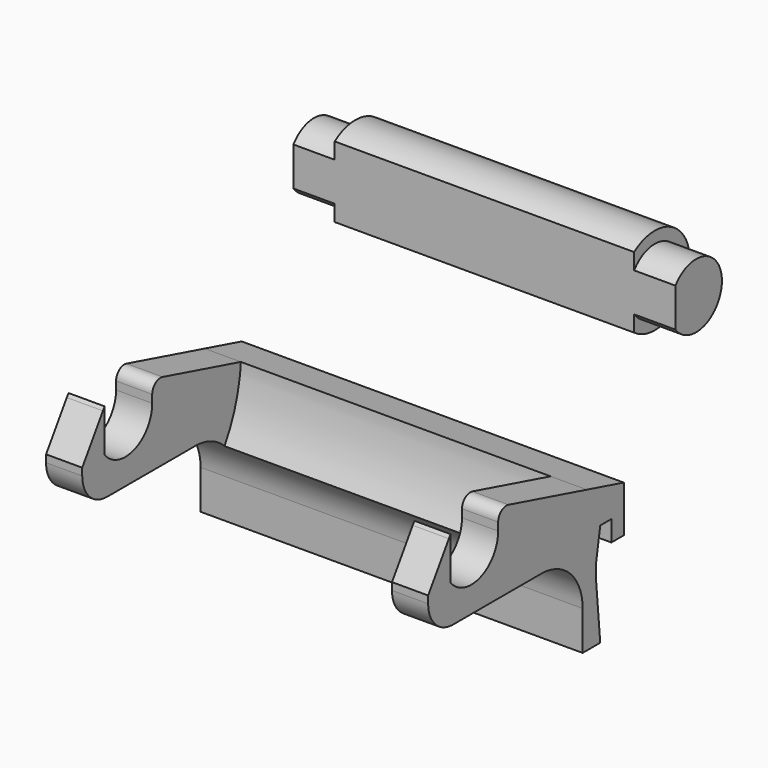
from build123d import *

# Parameters (mm, degrees)
F1_DEPTH      = 37
F1_DEPTH_BACK = 37
F2_DEPTH      = 30
F2_DEPTH_BACK = 30
F3_R          = 8.5
F4_DEPTH      = 37
F4_DEPTH_BACK = 37
F6_DEPTH      = 74.001
F8_DEPTH      = 8
F10_DEPTH     = 8


with BuildPart() as f1:
    # F0 (on Right) → F1 (new body, two sides)
    with BuildSketch(Plane.YZ) as f1_sk:
        with BuildLine():
            ThreePointArc((-78.4882180956, -7.1124182744), (-74.6718335634, -7.8693014244), (-71.4331604605, -10.0253764539))
            ThreePointArc((-71.4331604605, -10.0253764539), (-69.0747981117, -5.0434256298), (-67.7380949338, 0.3039972631))
            Line((-67.7380949338, 0.3039972631), (-67.8932940144, 0.3039972631))
            Line((-67.8932940144, 0.3039972631), (-88.9387147452, 0.3039972631))
            Line((-88.9387147452, 0.3039972631), (-90.38160708, 0.3039972631))
            ThreePointArc((-90.38160708, 0.3039972631), (-95.393650332, -2.112262057), (-100.4387147452, 0.2342697942))
            ThreePointArc((-100.4387147452, 0.2342697942), (-100.4673894342, 0.2690345458), (-100.4958224104, 0.3039972631))
            Line((-100.4958224104, 0.3039972631), (-105.886151975, 0.3039972631))
            Line((-105.886151975, 0.3039972631), (-105.886151975, -1.1124182744))
            ThreePointArc((-105.886151975, -1.1124182744), (-104.1287926621, -5.3550589615), (-99.886151975, -7.1124182744))
            Line((-99.886151975, -7.1124182744), (-78.4882180956, -7.1124182744))
        make_face()
        with BuildLine():
            Line((-100.4387147452, 0.2342697942), (-100.4387147452, 0.3039972631))
            Line((-100.4387147452, 0.3039972631), (-100.4958224104, 0.3039972631))
            ThreePointArc((-100.4958224104, 0.3039972631), (-100.4673894342, 0.2690345458), (-100.4387147452, 0.2342697942))
        make_face()
        with BuildLine():
            Line((-100.4958224104, 0.3039972631), (-100.4387147452, 0.3039972631))
            Line((-100.4387147452, 0.3039972631), (-100.4387147452, 8.5408936571))
            ThreePointArc((-100.4387147452, 8.5408936571), (-100.6653734684, 8.2517813311), (-100.8753365595, 7.9503255065))
            ThreePointArc((-100.8753365595, 7.9503255065), (-101.9307231786, 4.0653605264), (-100.4958224104, 0.3039972631))
        make_face()
        with BuildLine():
            Line((-100.8753365595, 7.9503255065), (-105.886151975, 0.3039972631))
            Line((-105.886151975, 0.3039972631), (-100.4958224104, 0.3039972631))
            ThreePointArc((-100.4958224104, 0.3039972631), (-101.9307231786, 4.0653605264), (-100.8753365595, 7.9503255065))
        make_face()
        with BuildLine():
            Line((-67.8932940144, 0.3039972631), (-67.7380949338, 0.3039972631))
            ThreePointArc((-67.7380949338, 0.3039972631), (-67.5865005705, 1.5145753621), (-67.4877856318, 2.7306080696))
            Line((-67.4877856318, 2.7306080696), (-86.4158285453, 7.8575344772))
            ThreePointArc((-86.4158285453, 7.8575344772), (-88.1540804515, 7.5154562914), (-88.9387147452, 5.9270966974))
            Line((-88.9387147452, 5.9270966974), (-88.9387147452, 4.3875817256))
            Line((-88.9387147452, 4.3875817256), (-88.9387147452, 0.3039972631))
            Line((-88.9387147452, 0.3039972631), (-67.8932940144, 0.3039972631))
        make_face()
        with BuildLine():
            Line((-68.4882180956, -24.6960027369), (-64.2290080275, -24.6960027369))
            Line((-64.2290080275, -24.6960027369), (-65.2290080275, -13.6960027369))
            Line((-65.2290080275, -13.6960027369), (-65.2290080275, -10.6960027369))
            Line((-65.2290080275, -10.6960027369), (-64.2290080275, -4.6960027369))
            Line((-64.2290080275, -4.6960027369), (-61.5290080275, -4.6960027369))
            Line((-61.5290080275, -4.6960027369), (-61.5290080275, -8.6960027369))
            Line((-61.5290080275, -8.6960027369), (-58.5290080275, -8.6960027369))
            Line((-58.5290080275, -8.6960027369), (-58.5290080275, 0.3039972631))
            Line((-58.5290080275, 0.3039972631), (-67.7380949338, 0.3039972631))
            ThreePointArc((-67.7380949338, 0.3039972631), (-69.0747981117, -5.0434256298), (-71.4331604605, -10.0253764539))
            ThreePointArc((-71.4331604605, -10.0253764539), (-69.2537561094, -13.2751390528), (-68.4882180956, -17.1124182744))
            Line((-68.4882180956, -17.1124182744), (-68.4882180956, -24.6960027369))
        make_face()
        with BuildLine():
            ThreePointArc((-67.4877856318, 2.7306080696), (-67.5865005705, 1.5145753621), (-67.7380949338, 0.3039972631))
            Line((-67.7380949338, 0.3039972631), (-58.5290080275, 0.3039972631))
            Line((-58.5290080275, 0.3039972631), (-67.4877856318, 2.7306080696))
        make_face()
        with BuildLine():
            Line((-90.38160708, 0.3039972631), (-88.9387147452, 0.3039972631))
            Line((-88.9387147452, 0.3039972631), (-88.9387147452, 4.3875817256))
            ThreePointArc((-88.9387147452, 4.3875817256), (-89.3100444235, 2.2220794541), (-90.38160708, 0.3039972631))
        make_face()
    extrude(amount=-F1_DEPTH)
    extrude(f1_sk.sketch, amount=F1_DEPTH_BACK)

    # F0 (on Right) → F2 (cut, two sides)
    with BuildSketch(Plane.YZ) as f2_sk:
        with BuildLine():
            ThreePointArc((-67.4387147452, 4.3875817256), (-122.4216308216, 11.8656991367), (-71.4331604605, -10.0253764539))
            ThreePointArc((-71.4331604605, -10.0253764539), (-74.6718335634, -7.8693014244), (-78.4882180956, -7.1124182744))
            Line((-78.4882180956, -7.1124182744), (-99.886151975, -7.1124182744))
            ThreePointArc((-99.886151975, -7.1124182744), (-104.1287926621, -5.3550589615), (-105.886151975, -1.1124182744))
            Line((-105.886151975, -1.1124182744), (-105.886151975, 0.3039972631))
            Line((-105.886151975, 0.3039972631), (-100.8753365595, 7.9503255065))
            ThreePointArc((-100.8753365595, 7.9503255065), (-100.6653734684, 8.2517813311), (-100.4387147452, 8.5408936571))
            ThreePointArc((-100.4387147452, 8.5408936571), (-93.2307745286, 10.5010913559), (-88.9387147452, 4.3875817256))
            Line((-88.9387147452, 4.3875817256), (-88.9387147452, 5.9270966974))
            ThreePointArc((-88.9387147452, 5.9270966974), (-88.1540804515, 7.5154562914), (-86.4158285453, 7.8575344772))
            Line((-86.4158285453, 7.8575344772), (-67.4877856318, 2.7306080696))
            ThreePointArc((-67.4877856318, 2.7306080696), (-67.4509851555, 3.5587316715), (-67.4387147452, 4.3875817256))
        make_face()
        with BuildLine():
            Line((-100.4387147452, 0.3039972631), (-90.38160708, 0.3039972631))
            ThreePointArc((-90.38160708, 0.3039972631), (-89.3100444235, 2.2220794541), (-88.9387147452, 4.3875817256))
            ThreePointArc((-88.9387147452, 4.3875817256), (-93.2307745286, 10.5010913559), (-100.4387147452, 8.5408936571))
            Line((-100.4387147452, 8.5408936571), (-100.4387147452, 0.3039972631))
        make_face()
        with BuildLine():
            ThreePointArc((-100.4387147452, 0.2342697942), (-95.393650332, -2.112262057), (-90.38160708, 0.3039972631))
            Line((-90.38160708, 0.3039972631), (-100.4387147452, 0.3039972631))
            Line((-100.4387147452, 0.3039972631), (-100.4387147452, 0.2342697942))
        make_face()
        with BuildLine():
            Line((-100.4958224104, 0.3039972631), (-100.4387147452, 0.3039972631))
            Line((-100.4387147452, 0.3039972631), (-100.4387147452, 8.5408936571))
            ThreePointArc((-100.4387147452, 8.5408936571), (-100.6653734684, 8.2517813311), (-100.8753365595, 7.9503255065))
            ThreePointArc((-100.8753365595, 7.9503255065), (-101.9307231786, 4.0653605264), (-100.4958224104, 0.3039972631))
        make_face()
        with BuildLine():
            Line((-100.4387147452, 0.2342697942), (-100.4387147452, 0.3039972631))
            Line((-100.4387147452, 0.3039972631), (-100.4958224104, 0.3039972631))
            ThreePointArc((-100.4958224104, 0.3039972631), (-100.4673894342, 0.2690345458), (-100.4387147452, 0.2342697942))
        make_face()
        with BuildLine():
            ThreePointArc((-78.4882180956, -7.1124182744), (-74.6718335634, -7.8693014244), (-71.4331604605, -10.0253764539))
            ThreePointArc((-71.4331604605, -10.0253764539), (-69.0747981117, -5.0434256298), (-67.7380949338, 0.3039972631))
            Line((-67.7380949338, 0.3039972631), (-67.8932940144, 0.3039972631))
            Line((-67.8932940144, 0.3039972631), (-88.9387147452, 0.3039972631))
            Line((-88.9387147452, 0.3039972631), (-90.38160708, 0.3039972631))
            ThreePointArc((-90.38160708, 0.3039972631), (-95.393650332, -2.112262057), (-100.4387147452, 0.2342697942))
            ThreePointArc((-100.4387147452, 0.2342697942), (-100.4673894342, 0.2690345458), (-100.4958224104, 0.3039972631))
            Line((-100.4958224104, 0.3039972631), (-105.886151975, 0.3039972631))
            Line((-105.886151975, 0.3039972631), (-105.886151975, -1.1124182744))
            ThreePointArc((-105.886151975, -1.1124182744), (-104.1287926621, -5.3550589615), (-99.886151975, -7.1124182744))
            Line((-99.886151975, -7.1124182744), (-78.4882180956, -7.1124182744))
        make_face()
        with BuildLine():
            Line((-67.8932940144, 0.3039972631), (-67.7380949338, 0.3039972631))
            ThreePointArc((-67.7380949338, 0.3039972631), (-67.5865005705, 1.5145753621), (-67.4877856318, 2.7306080696))
            Line((-67.4877856318, 2.7306080696), (-86.4158285453, 7.8575344772))
            ThreePointArc((-86.4158285453, 7.8575344772), (-88.1540804515, 7.5154562914), (-88.9387147452, 5.9270966974))
            Line((-88.9387147452, 5.9270966974), (-88.9387147452, 4.3875817256))
            Line((-88.9387147452, 4.3875817256), (-88.9387147452, 0.3039972631))
            Line((-88.9387147452, 0.3039972631), (-67.8932940144, 0.3039972631))
        make_face()
        with BuildLine():
            Line((-100.8753365595, 7.9503255065), (-105.886151975, 0.3039972631))
            Line((-105.886151975, 0.3039972631), (-100.4958224104, 0.3039972631))
            ThreePointArc((-100.4958224104, 0.3039972631), (-101.9307231786, 4.0653605264), (-100.8753365595, 7.9503255065))
        make_face()
        with BuildLine():
            Line((-90.38160708, 0.3039972631), (-88.9387147452, 0.3039972631))
            Line((-88.9387147452, 0.3039972631), (-88.9387147452, 4.3875817256))
            ThreePointArc((-88.9387147452, 4.3875817256), (-89.3100444235, 2.2220794541), (-90.38160708, 0.3039972631))
        make_face()
    extrude(amount=-F2_DEPTH, mode=Mode.SUBTRACT)
    extrude(f2_sk.sketch, amount=F2_DEPTH_BACK, mode=Mode.SUBTRACT)


with BuildPart() as f4:
    # F3 (on Right) → F4 (new body, two sides)
    with BuildSketch(Plane.YZ) as f4_sk:
        with Locations((-41.0175137222, 25.0459443778)):
            Circle(F3_R)
    extrude(amount=F4_DEPTH)
    extrude(f4_sk.sketch, amount=-F4_DEPTH_BACK)

    # F5 (on face) → F6 (cut, through all)
    with BuildSketch(Plane.YZ.offset(37)):
        with BuildLine():
            Line((-46.0175137222, 18.1720808353), (-46.0175137222, 31.9198079202))
            ThreePointArc((-46.0175137222, 31.9198079202), (-49.5175137222, 25.0459443778), (-46.0175137222, 18.1720808353))
        make_face()
    extrude(amount=-F6_DEPTH, mode=Mode.SUBTRACT)

    # F7 (on face) → F8 (cut)
    with BuildSketch(Plane.YZ.offset(37)):
        with BuildLine():
            ThreePointArc((-46.0175137222, 28.7959443778), (-39.0410901846, 30.9752149906), (-34.7675137222, 25.0459443778))
            ThreePointArc((-34.7675137222, 25.0459443778), (-39.0410901846, 19.116673765), (-46.0175137222, 21.2959443778))
            Line((-46.0175137222, 21.2959443778), (-46.0175137222, 18.1720808353))
            ThreePointArc((-46.0175137222, 18.1720808353), (-32.5175137222, 25.0459443778), (-46.0175137222, 31.9198079202))
            Line((-46.0175137222, 31.9198079202), (-46.0175137222, 28.7959443778))
        make_face()
    extrude(amount=-F8_DEPTH, mode=Mode.SUBTRACT)

    # F9 (on face) → F10 (cut)
    with BuildSketch(Plane(origin=(-37, 0, 0), x_dir=(0, -1, 0), z_dir=(-1, 0, 0))):
        with BuildLine():
            ThreePointArc((46.0175137222, 21.2959443778), (34.7675137222, 25.0459443778), (46.0175137222, 28.7959443778))
            Line((46.0175137222, 28.7959443778), (46.0175137222, 31.9198079202))
            ThreePointArc((46.0175137222, 31.9198079202), (32.5175137222, 25.0459443778), (46.0175137222, 18.1720808353))
            Line((46.0175137222, 18.1720808353), (46.0175137222, 21.2959443778))
        make_face()
    extrude(amount=-F10_DEPTH, mode=Mode.SUBTRACT)


solid = Compound([f1.part, f4.part])
